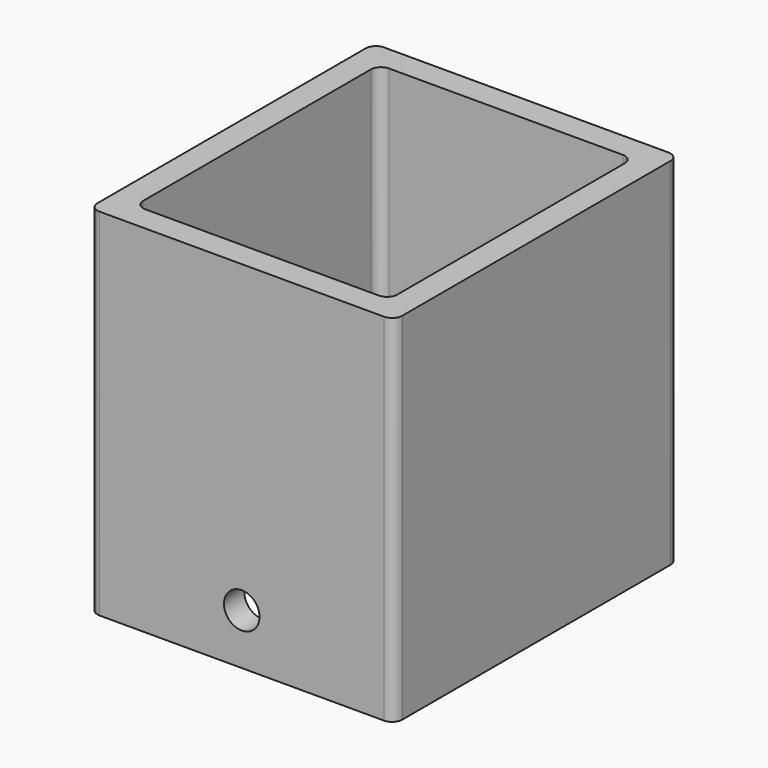
from build123d import *

# Parameters (mm, degrees)
F0_W     = 60
F0_H     = 70
F0_W_2   = 50
F0_H_2   = 60
F1_DEPTH = 70
F2_R     = 2
F3_R     = 3.5
F4_DEPTH = 70


with BuildPart() as f1:
    # F0 (on Top) → F1 (new body)
    with BuildSketch(Plane.XY):
        Rectangle(F0_W, F0_H)
        Rectangle(F0_W_2, F0_H_2, mode=Mode.SUBTRACT)
    extrude(amount=F1_DEPTH)

    # F2
    f2_edges = [f1.edges().sort_by_distance(p)[0] for p in [
        (-30, 35, 35),
        (30, 35, 35),
        (30, -35, 35),
        (-30, -35, 35),
        (25, 30, 35),
        (-25, -30, 35),
        (-25, 30, 35),
        (25, -30, 35),
    ]]
    fillet(f2_edges, radius=F2_R)

    # F3 (on face) → F4 (cut)
    with BuildSketch(Plane.XZ.offset(35)):
        with Locations((0, 10)):
            Circle(F3_R)
    extrude(amount=-F4_DEPTH, mode=Mode.SUBTRACT)


solid = f1.part
